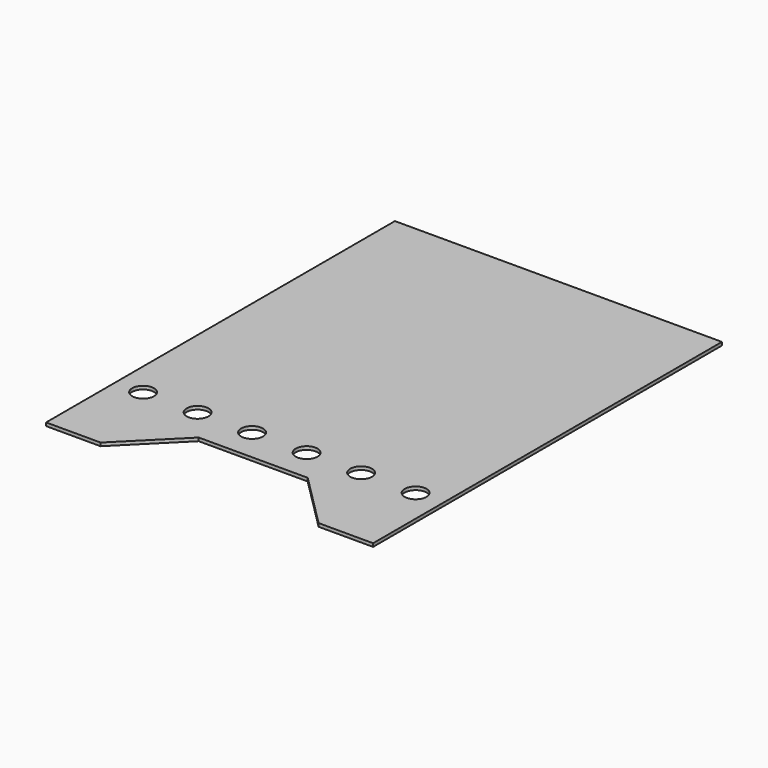
from build123d import *

# Parameters (mm, degrees)
F0_R     = 10
F1_DEPTH = 3


with BuildPart() as f1:
    # F0 (on Top) → F1 (new body)
    with BuildSketch(Plane.XY):
        Polygon((-150, 200), (-150, -200), (-100, -200), (-50, -150), (50, -150), (100, -200), (150, -200), (150, 200), align=None)
        with Locations((-125, -120)):
            Circle(F0_R, mode=Mode.SUBTRACT)
        with Locations((-75, -120)):
            Circle(F0_R, mode=Mode.SUBTRACT)
        with Locations((-25, -120)):
            Circle(F0_R, mode=Mode.SUBTRACT)
        with Locations((25, -120)):
            Circle(F0_R, mode=Mode.SUBTRACT)
        with Locations((75, -120)):
            Circle(F0_R, mode=Mode.SUBTRACT)
        with Locations((125, -120)):
            Circle(F0_R, mode=Mode.SUBTRACT)
    extrude(amount=F1_DEPTH)


solid = f1.part
